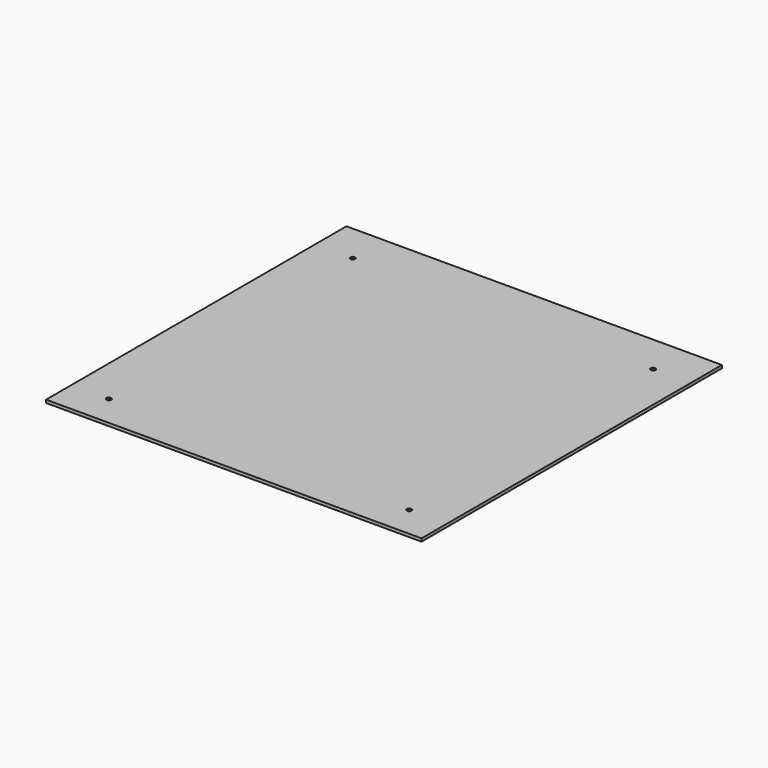
from build123d import *

# Parameters (mm, degrees)
F0_W           = 25
F0_H           = 21
F1_DEPTH       = 2
F2_D           = 3.2
F2_CSINK_D     = 5
F2_CSINK_ANGLE = 82


with BuildPart() as f1:
    # F0 (on Top) → F1 (new body)
    with BuildSketch(Plane.XY):
        Polygon((-100, -125), (125, -125), (125, 125), (-125, 125), (-125, -104), (-100, -104), align=None)
        with Locations((-112.5, -114.5)):
            Rectangle(F0_W, F0_H)
        Polygon((-100, -125), (125, -125), (125, 125), (-125, 125), (-125, -104), (-100, -104), align=None)
    extrude(amount=F1_DEPTH)

    # F2 (through all)
    with Locations(Plane(origin=(0, 0, 0), x_dir=(1, 0, 0), z_dir=(0, 0, -1))):
        with Locations((-100, -99), (100, -99), (100, 104), (-100, 104)):
            CounterSinkHole(F2_D / 2, F2_CSINK_D / 2, counter_sink_angle=F2_CSINK_ANGLE)


solid = f1.part
